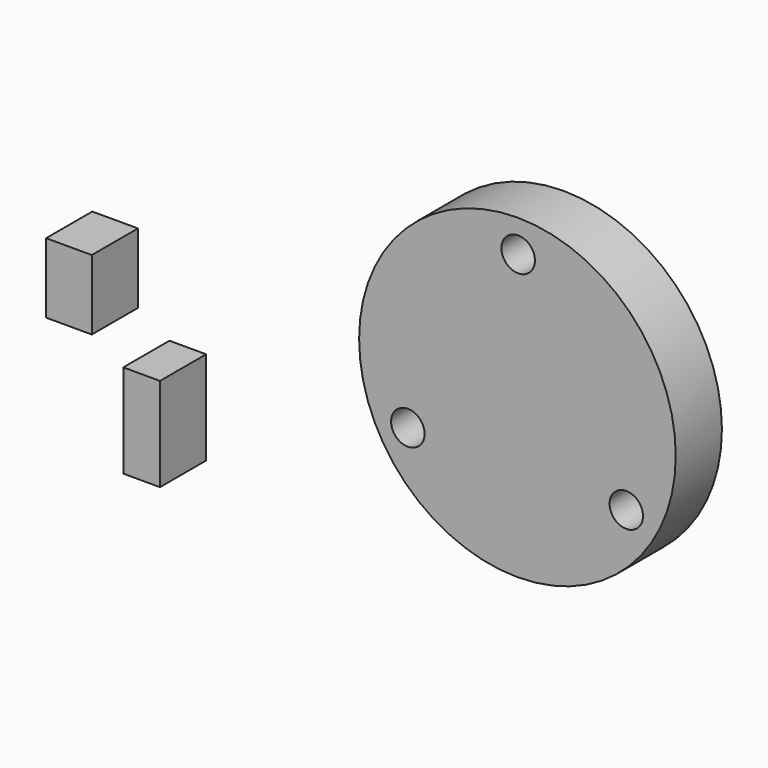
from build123d import *

# Parameters (mm, degrees)
F0_W     = 19.798026
F0_H     = 30.310742
F0_W_2   = 15.903339
F0_H_2   = 40.522663
F1_DEPTH = 25
F2_R     = 68.568566
F2_R_2   = 7.249438
F3_DEPTH = 25


with BuildPart() as f1:
    # F0 (on Front) → F1 (new body)
    with BuildSketch(Plane.XZ):
        with Locations((-164.550908, 34.611419)):
            Rectangle(F0_W, F0_H)
        with Locations((-133.068777, -8.87887)):
            Rectangle(F0_W_2, F0_H_2)
    extrude(amount=F1_DEPTH)


with BuildPart() as f3:
    # F2 (on Front) → F3 (new body)
    with BuildSketch(Plane.XZ):
        with Locations((29.697057, 55.471439)):
            Circle(F2_R)
        with Locations((-17.76704, 28.442796)):
            Circle(F2_R_2, mode=Mode.SUBTRACT)
        with Locations((76.836597, 27.880647)):
            Circle(F2_R_2, mode=Mode.SUBTRACT)
        with Locations((30.021613, 110.090874)):
            Circle(F2_R_2, mode=Mode.SUBTRACT)
    extrude(amount=F3_DEPTH)


solid = Compound([f1.part, f3.part])
